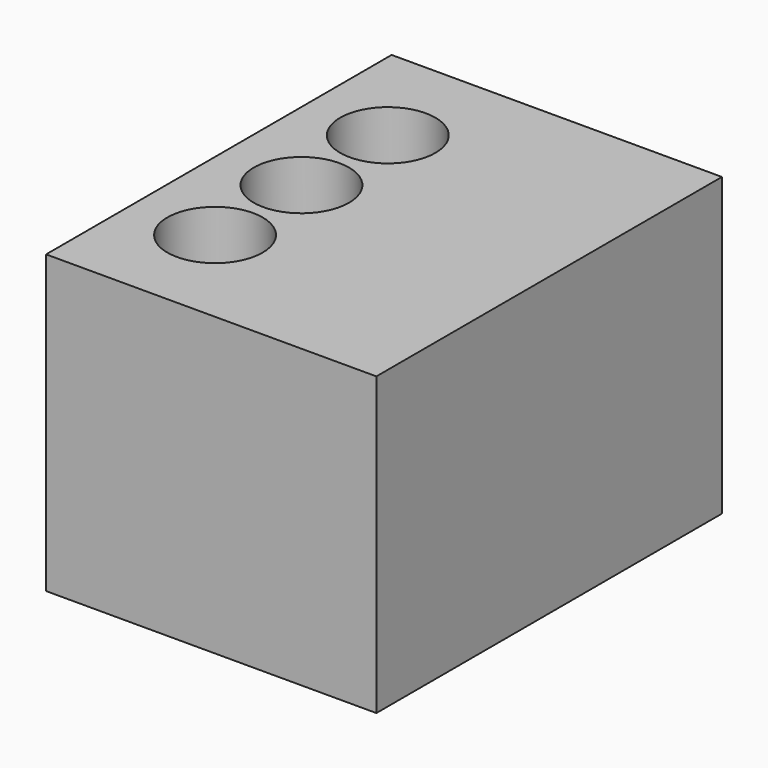
from build123d import *

# Parameters (mm, degrees)
F0_W     = 78
F0_H     = 102
F1_DEPTH = 70
F2_R     = 11.25
F3_DEPTH = 55


with BuildPart() as f1:
    # F0 (on Top) → F1 (new body)
    with BuildSketch(Plane.XY):
        with Locations((7.489208, 73.584793)):
            Rectangle(F0_W, F0_H)
    extrude(amount=F1_DEPTH)

    # F2 (on face) → F3 (cut)
    with BuildSketch(Plane.XY.offset(70)):
        with Locations((-12.010792, 99.084793)):
            Circle(F2_R)
        with Locations((-12.010792, 73.584793)):
            Circle(F2_R)
        with Locations((-12.010792, 48.084793)):
            Circle(F2_R)
    extrude(amount=-F3_DEPTH, mode=Mode.SUBTRACT)


solid = f1.part
